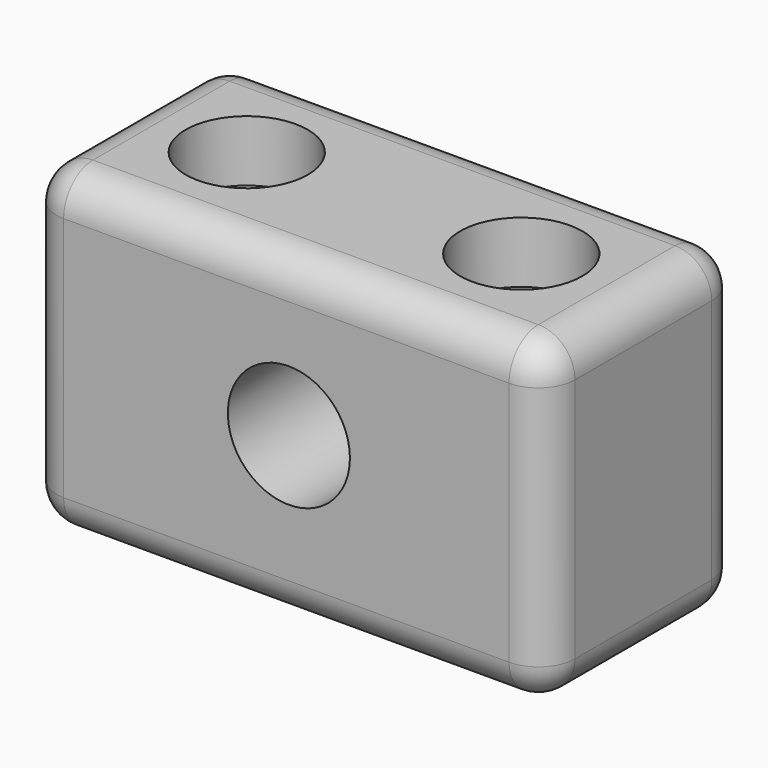
from build123d import *

# Parameters (mm, degrees)
F0_W           = 53.960219
F0_H           = 33.172701
F1_DEPTH       = 25.4
F2_R           = 3.81
F3_R           = 6.35
F4_DEPTH       = 25.401
F6_D           = 6.35
F6_CBORE_D     = 12.7
F6_CBORE_DEPTH = 6.35


with BuildPart() as f1:
    # F0 (on Front) → F1 (new body)
    with BuildSketch(Plane.XZ):
        with Locations((26.980109, 16.58635)):
            Rectangle(F0_W, F0_H)
    extrude(amount=F1_DEPTH)

    # F2
    f2_edges = [f1.edges().sort_by_distance(p)[0] for p in [
        (26.98011, -25.4, 33.172701),
        (53.960219, -12.7, 33.172701),
        (0, -25.4, 16.58635),
        (26.98011, -25.4, 0),
        (53.960219, -25.4, 16.58635),
        (53.960219, -12.7, 0),
        (53.960219, 0, 16.58635),
        (0, 0, 16.58635),
        (26.98011, 0, 0),
        (26.98011, 0, 33.172701),
        (0, -12.7, 33.172701),
        (0, -12.7, 0),
    ]]
    fillet(f2_edges, radius=F2_R)

    # F3 (on face) → F4 (cut, through all)
    with BuildSketch(Plane.XZ.offset(25.4)):
        with Locations((27.24513, 17.117795)):
            Circle(F3_R)
    extrude(amount=-F4_DEPTH, mode=Mode.SUBTRACT)

    # F6 (through all)
    with Locations(Plane.XY.offset(33.172701)):
        with Locations((12.7, -12.7), (41.260219, -12.7)):
            CounterBoreHole(F6_D / 2, F6_CBORE_D / 2, F6_CBORE_DEPTH)


solid = f1.part
